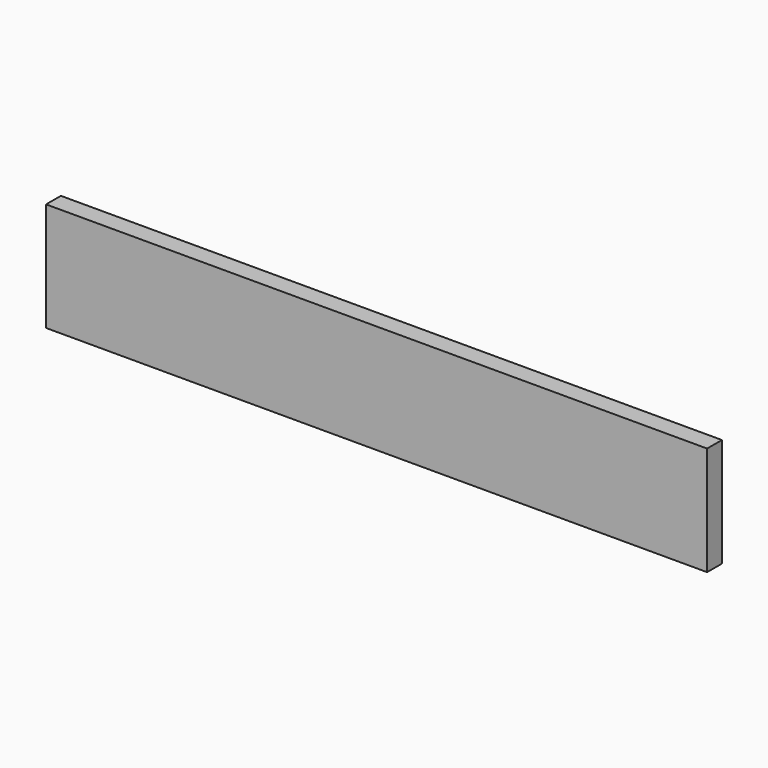
from build123d import *

# Parameters (mm, degrees)
F0_W      = 200
F0_H      = 5.810397
F1_DEPTH  = 35
F1_FACE_W = 200
F1_FACE_H = 35
F2_DEPTH  = 200
F2_FACE_W = 35
F2_FACE_H = 205.810398
F3_DEPTH  = 1250


with BuildPart() as f1:
    # F0 (on Front) → F1 (new body)
    with BuildSketch(Plane.XZ):
        with Locations((-0.600006, -36.000002)):
            Rectangle(F0_W, F0_H)
    extrude(amount=F1_DEPTH)

    # F1_face (on face) → F2 (join)
    with BuildSketch(Plane(origin=(-0.600006, -17.5, -33.094804), x_dir=(1, 0, 0), z_dir=(0, 0, 1))):
        Rectangle(F1_FACE_W, F1_FACE_H)
    extrude(amount=F2_DEPTH)

    # F2_face (on face) → F3 (join)
    with BuildSketch(Plane(origin=(-100.600006, -17.5, 63.999998), x_dir=(0, -1, 0), z_dir=(-1, 0, 0))):
        Rectangle(F2_FACE_W, F2_FACE_H)
    extrude(amount=-F3_DEPTH)


solid = f1.part
